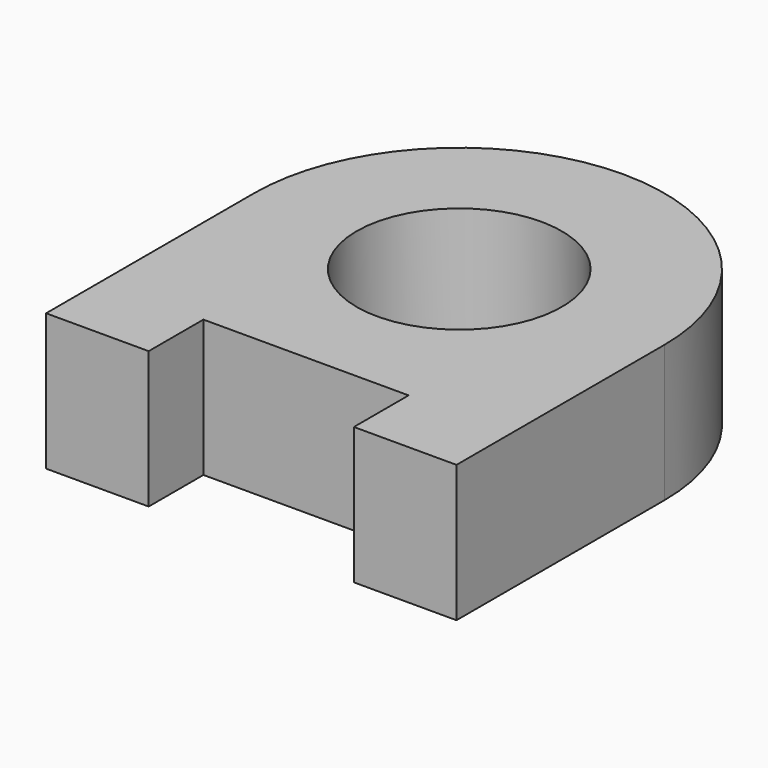
from build123d import *

# Parameters (mm, degrees)
F1_DEPTH = 508


with BuildPart() as f1:
    # F0 (on Top) → F1 (new body)
    with BuildSketch(Plane.XY):
        with BuildLine():
            Line((762, 0), (381, 0))
            ThreePointArc((381, 0), (0, -381), (-381, 0))
            Line((-381, 0), (-762, 0))
            ThreePointArc((-762, 0), (-628.132779, -431.385225), (-273.566372, -711.2))
            Line((-273.566372, -711.2), (273.566372, -711.2))
            ThreePointArc((273.566372, -711.2), (628.132779, -431.385225), (762, 0))
        make_face()
        with BuildLine():
            ThreePointArc((-273.566372, -711.2), (-628.132779, -431.385225), (-762, 0))
            Line((-762, 0), (-762, -965.2))
            Line((-762, -965.2), (-381, -965.2))
            Line((-381, -965.2), (-381, -711.2))
            Line((-381, -711.2), (-273.566372, -711.2))
        make_face()
        with BuildLine():
            Line((762, -965.2), (762, 0))
            ThreePointArc((762, 0), (628.132779, -431.385225), (273.566372, -711.2))
            Line((273.566372, -711.2), (381, -711.2))
            Line((381, -711.2), (381, -965.2))
            Line((381, -965.2), (762, -965.2))
        make_face()
        with BuildLine():
            ThreePointArc((-381, 0), (0, 381), (381, 0))
            Line((381, 0), (762, 0))
            ThreePointArc((762, 0), (0, 762), (-762, 0))
            Line((-762, 0), (-381, 0))
        make_face()
    extrude(amount=F1_DEPTH)


solid = f1.part
